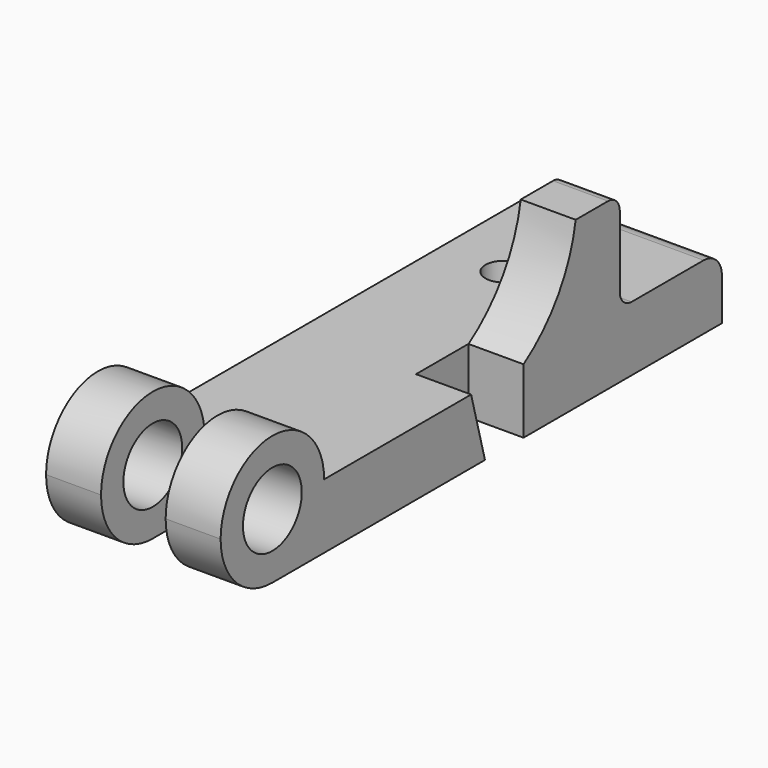
from build123d import *

# Parameters (mm, degrees)
F1_DEPTH  = 60.325
F3_DEPTH  = 41.3258
F5_DEPTH  = 19.05
F6_R      = 6.35
F7_DEPTH  = 22.353
F8_R      = 12.7
F9_DEPTH  = 60.326
F10_W     = 22.3266
F10_H     = 22.457045
F10_H_2   = 23.779094
F11_DEPTH = 57.151


with BuildPart() as f1:
    # F0 (on Right) → F1 (new body)
    with BuildSketch(Plane.YZ):
        with BuildLine():
            Line((108.502969, 0), (22.352, 0))
            ThreePointArc((22.352, 0), (0, 22.352), (-22.352, 0))
            ThreePointArc((-22.352, 0), (-15.805251, -15.805251), (0, -22.352))
            Line((0, -22.352), (194.2084, -22.352))
            Line((194.2084, -22.352), (194.2084, -7.874))
            ThreePointArc((194.2084, -7.874), (191.902159, -2.306241), (186.3344, 0))
            Line((186.3344, 0), (155.1686, 0))
            ThreePointArc((155.1686, 0), (151.576498, 1.487898), (150.0886, 5.08))
            Line((150.0886, 5.08), (150.0886, 29.718))
            ThreePointArc((150.0886, 29.718), (148.600702, 33.310102), (145.0086, 34.798))
            Line((145.0086, 34.798), (131.0386, 34.798))
            ThreePointArc((131.0386, 34.798), (123.482134, 14.995483), (108.502969, 0))
        make_face()
    extrude(amount=F1_DEPTH)

    # F2 (on face) → F3 (cut)
    with BuildSketch(Plane(origin=(0, 0, 0), x_dir=(0, -1, 0), z_dir=(-1, 0, 0))):
        with BuildLine():
            ThreePointArc((-150.0886, 5.08), (-151.576498, 1.487898), (-155.1686, 0))
            Line((-155.1686, 0), (-108.502969, 0))
            ThreePointArc((-108.502969, 0), (-123.482134, 14.995483), (-131.0386, 34.798))
            Line((-131.0386, 34.798), (-145.0086, 34.798))
            ThreePointArc((-145.0086, 34.798), (-148.600702, 33.310102), (-150.0886, 29.718))
            Line((-150.0886, 29.718), (-150.0886, 5.08))
        make_face()
    extrude(amount=-F3_DEPTH, mode=Mode.SUBTRACT)

    # F4 (on face) → F5 (cut)
    with BuildSketch(Plane.YZ.offset(60.325)):
        Polygon((108.502969, -22.352), (108.502969, 0), (85.852, 0), (91.8464, -22.352), align=None)
    extrude(amount=-F5_DEPTH, mode=Mode.SUBTRACT)

    # F6 (on face) → F7 (cut, through all)
    with BuildSketch(Plane.XY):
        with Locations((22.352, 147.4724)):
            Circle(F6_R)
    extrude(amount=-F7_DEPTH, mode=Mode.SUBTRACT)

    # F8 (on face) → F9 (cut, through all)
    with BuildSketch(Plane(origin=(0, 0, 0), x_dir=(0, -1, 0), z_dir=(-1, 0, 0))):
        Circle(F8_R)
    extrude(amount=-F9_DEPTH, mode=Mode.SUBTRACT)

    # F10 (on face) → F11 (cut, through all)
    with BuildSketch(Plane(origin=(0, 0, -22.352), x_dir=(1, 0, 0), z_dir=(0, 0, -1))):
        with Locations((30.1625, 11.228522)):
            Rectangle(F10_W, F10_H)
        with Locations((30.1625, -11.889547)):
            Rectangle(F10_W, F10_H_2)
    extrude(amount=-F11_DEPTH, mode=Mode.SUBTRACT)


solid = f1.part
